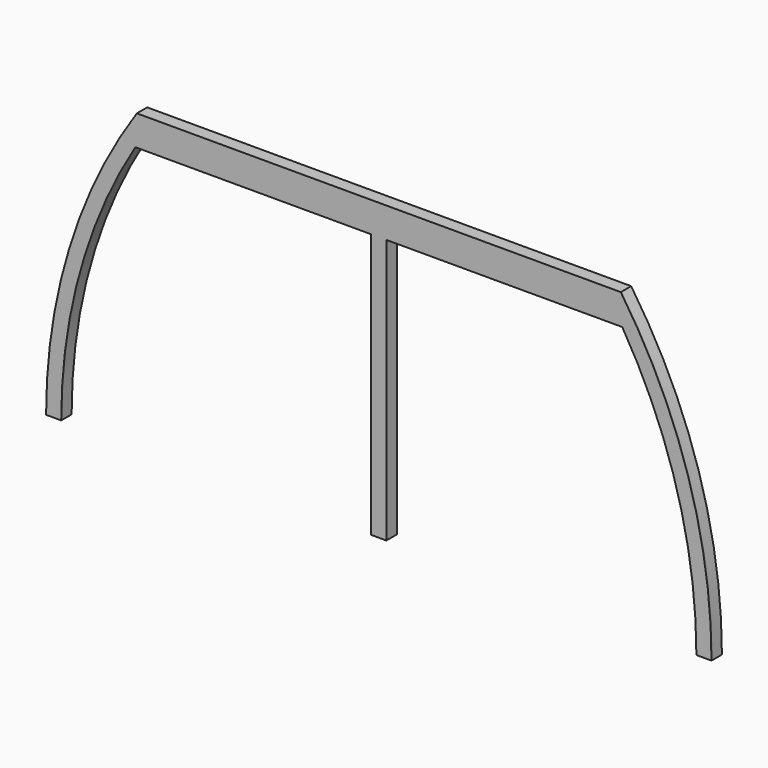
from build123d import *

# Parameters (mm, degrees)
F0_W     = 25
F0_H     = 60
F1_DEPTH = 3
F2_DEPTH = 3
F0_H_2   = 875
F3_DEPTH = 3
F4_DEPTH = 3
F5_DEPTH = 40


with BuildPart() as f1:
    # F0 (on Front) → F1 (new body)
    with BuildSketch(Plane.XZ):
        with BuildLine():
            Line((-766.6582403712, 1910), (-800, 1910))
            Line((-800, 1910), (-800, 1857.9991506224))
            ThreePointArc((-800, 1857.9991506224), (-783.5675215696, 1884.152432846), (-766.6582403712, 1910))
        make_face()
        Polygon((0, 1950), (-800, 1950), (-800, 1910), (-766.6582403712, 1910), (-25, 1910), (0, 1910), align=None)
        Polygon((800, 1950), (0, 1950), (0, 1910), (25, 1910), (766.6582403712, 1910), (800, 1910), align=None)
        with BuildLine():
            Line((800, 1857.9991506224), (800, 1910))
            Line((800, 1910), (766.6582403712, 1910))
            ThreePointArc((766.6582403712, 1910), (783.5675215696, 1884.152432846), (800, 1857.9991506225))
        make_face()
        with Locations((-12.5, 1880)):
            Rectangle(F0_W, F0_H)
        with Locations((12.5, 1880)):
            Rectangle(F0_W, F0_H)
        with BuildLine():
            ThreePointArc((-766.6582403712, 1910), (-783.5675215696, 1884.152432846), (-800, 1857.9991506224))
            Line((-800, 1857.9991506224), (-800, 1850))
            Line((-800, 1850), (-25, 1850))
            Line((-25, 1850), (-25, 1910))
            Line((-25, 1910), (-766.6582403712, 1910))
        make_face()
        with BuildLine():
            Line((766.6582403712, 1910), (25, 1910))
            Line((25, 1910), (25, 1850))
            Line((25, 1850), (800, 1850))
            Line((800, 1850), (800, 1857.9991506224))
            ThreePointArc((800, 1857.9991506225), (783.5675215696, 1884.152432846), (766.6582403712, 1910))
        make_face()
    extrude(amount=F1_DEPTH)

    # F0 (on Front) → F2 (join)
    with BuildSketch(Plane.XZ):
        with BuildLine():
            Line((-800, 1910), (-800, 1950))
            ThreePointArc((-800, 1950), (-1023.3042182521, 1485.0551440776), (-1100, 975))
            Line((-1100, 975), (-1050, 975))
            ThreePointArc((-1050, 975), (-987.5663076307, 1429.340769936), (-804.8936130896, 1850))
            ThreePointArc((-804.8936130896, 1850), (-802.452373196, 1854.0029808024), (-800, 1857.9991506224))
            Line((-800, 1857.9991506224), (-800, 1910))
        make_face()
        with BuildLine():
            Line((-800, 1850), (-800, 1857.9991506224))
            ThreePointArc((-800, 1857.9991506224), (-802.452373196, 1854.0029808024), (-804.8936130896, 1850))
            Line((-804.8936130896, 1850), (-800, 1850))
        make_face()
    extrude(amount=F2_DEPTH)

    # F0 (on Front) → F3 (join)
    with BuildSketch(Plane.XZ):
        with Locations((-12.5, 1412.5)):
            Rectangle(F0_W, F0_H_2)
        with Locations((12.5, 1412.5)):
            Rectangle(F0_W, F0_H_2)
    extrude(amount=F3_DEPTH)

    # F0 (on Front) → F4 (join)
    with BuildSketch(Plane.XZ):
        with BuildLine():
            ThreePointArc((1100, 975), (1023.3042182521, 1485.0551440776), (800, 1950))
            Line((800, 1950), (800, 1910))
            Line((800, 1910), (800, 1857.9991506224))
            ThreePointArc((800, 1857.9991506225), (802.452373196, 1854.0029808024), (804.8936130897, 1850))
            ThreePointArc((804.8936130897, 1850), (987.5663076308, 1429.340769936), (1050, 975))
            Line((1050, 975), (1100, 975))
        make_face()
        with BuildLine():
            ThreePointArc((804.8936130897, 1850), (802.452373196, 1854.0029808024), (800, 1857.9991506225))
            Line((800, 1857.9991506224), (800, 1850))
            Line((800, 1850), (804.8936130896, 1850))
        make_face()
    extrude(amount=F4_DEPTH)


with BuildPart() as f5:
    # F0 (on Front) → F5 (new body)
    with BuildSketch(Plane.XZ):
        Polygon((0, 1950), (-800, 1950), (-800, 1910), (-766.6582403712, 1910), (-25, 1910), (0, 1910), align=None)
        with Locations((12.5, 1880)):
            Rectangle(F0_W, F0_H)
        with Locations((-12.5, 1880)):
            Rectangle(F0_W, F0_H)
        with Locations((-12.5, 1412.5)):
            Rectangle(F0_W, F0_H_2)
        with Locations((12.5, 1412.5)):
            Rectangle(F0_W, F0_H_2)
        with BuildLine():
            ThreePointArc((1100, 975), (1023.3042182521, 1485.0551440776), (800, 1950))
            Line((800, 1950), (800, 1910))
            Line((800, 1910), (800, 1857.9991506224))
            ThreePointArc((800, 1857.9991506225), (802.452373196, 1854.0029808024), (804.8936130897, 1850))
            ThreePointArc((804.8936130897, 1850), (987.5663076308, 1429.340769936), (1050, 975))
            Line((1050, 975), (1100, 975))
        make_face()
        with BuildLine():
            Line((-800, 1910), (-800, 1950))
            ThreePointArc((-800, 1950), (-1023.3042182521, 1485.0551440776), (-1100, 975))
            Line((-1100, 975), (-1050, 975))
            ThreePointArc((-1050, 975), (-987.5663076307, 1429.340769936), (-804.8936130896, 1850))
            ThreePointArc((-804.8936130896, 1850), (-802.452373196, 1854.0029808024), (-800, 1857.9991506224))
            Line((-800, 1857.9991506224), (-800, 1910))
        make_face()
        Polygon((800, 1950), (0, 1950), (0, 1910), (25, 1910), (766.6582403712, 1910), (800, 1910), align=None)
        with BuildLine():
            Line((800, 1857.9991506224), (800, 1910))
            Line((800, 1910), (766.6582403712, 1910))
            ThreePointArc((766.6582403712, 1910), (783.5675215696, 1884.152432846), (800, 1857.9991506225))
        make_face()
        with BuildLine():
            Line((-766.6582403712, 1910), (-800, 1910))
            Line((-800, 1910), (-800, 1857.9991506224))
            ThreePointArc((-800, 1857.9991506224), (-783.5675215696, 1884.152432846), (-766.6582403712, 1910))
        make_face()
    extrude(amount=-F5_DEPTH)


solid = Compound([f1.part, f5.part])
